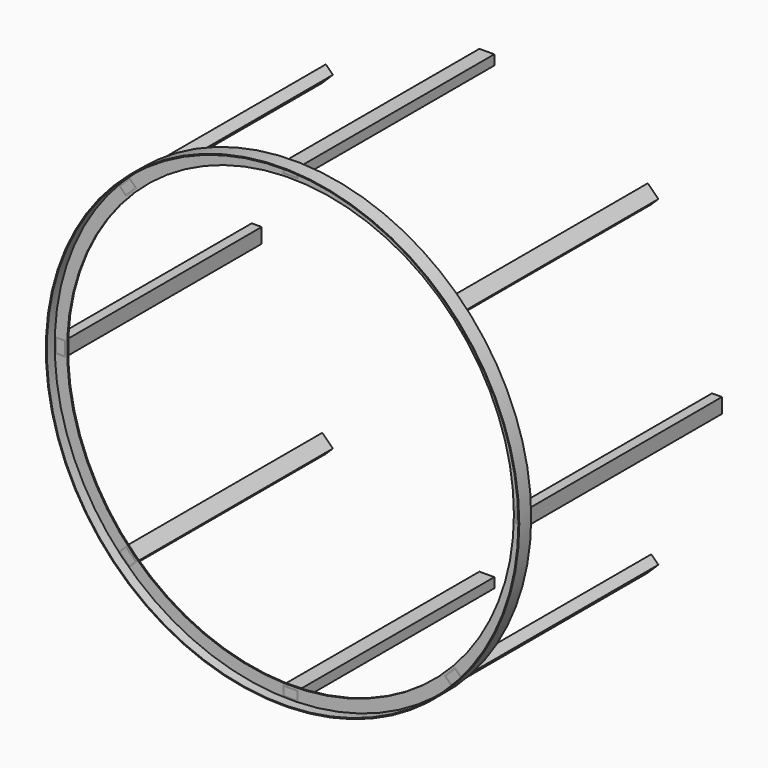
from build123d import *

# Parameters (mm, degrees)
F0_R     = 2425.7
F0_R_2   = 2416.175
F1_DEPTH = 152.4
F3_R     = 2416.175
F3_R_2   = 2289.175
F4_DEPTH = 12.7
F6_DEPTH = 2514.6
F7_COUNT = 8


with BuildPart() as f1:
    # F0 (on Front) → F1 (new body)
    with BuildSketch(Plane.XZ):
        Circle(F0_R)
        Circle(F0_R_2, mode=Mode.SUBTRACT)
    extrude(amount=F1_DEPTH)

    # F3 (on offset) → F4 (join)
    with BuildSketch(Plane.XZ.offset(38.1)):
        Circle(F3_R)
        Circle(F3_R_2, mode=Mode.SUBTRACT)
    extrude(amount=F4_DEPTH)


with BuildPart() as f6:
    # F5 (on face) → F6 (new body)
    with BuildSketch(Plane.XZ.offset(50.8)):
        Polygon((-2408.798695, 76.2), (-2408.798695, 0), (-2408.798695, -76.2), (-2307.198695, -76.2), (-2307.198695, 76.2), align=None)
        Polygon((-2399.273695, 66.675), (-2316.723695, 66.675), (-2316.723695, -66.675), (-2399.273695, -66.675), (-2399.273695, 0), align=None, mode=Mode.SUBTRACT)
    extrude(amount=-F6_DEPTH)


with BuildPart() as f7_1:
    # F7: instance of F6
    add(f6.part.rotate(Axis((0, -38.1, 0), (0, -1, 0)), 1 * 360 / F7_COUNT))


with BuildPart() as f7_2:
    # F7: instance of F6
    add(f6.part.rotate(Axis((0, -38.1, 0), (0, -1, 0)), 2 * 360 / F7_COUNT))


with BuildPart() as f7_3:
    # F7: instance of F6
    add(f6.part.rotate(Axis((0, -38.1, 0), (0, -1, 0)), 3 * 360 / F7_COUNT))


with BuildPart() as f7_4:
    # F7: instance of F6
    add(f6.part.rotate(Axis((0, -38.1, 0), (0, -1, 0)), 4 * 360 / F7_COUNT))


with BuildPart() as f7_5:
    # F7: instance of F6
    add(f6.part.rotate(Axis((0, -38.1, 0), (0, -1, 0)), 5 * 360 / F7_COUNT))


with BuildPart() as f7_6:
    # F7: instance of F6
    add(f6.part.rotate(Axis((0, -38.1, 0), (0, -1, 0)), 6 * 360 / F7_COUNT))


with BuildPart() as f7_7:
    # F7: instance of F6
    add(f6.part.rotate(Axis((0, -38.1, 0), (0, -1, 0)), 7 * 360 / F7_COUNT))


solid = Compound([f1.part, f6.part, f7_1.part, f7_2.part, f7_3.part, f7_4.part, f7_5.part, f7_6.part, f7_7.part])
